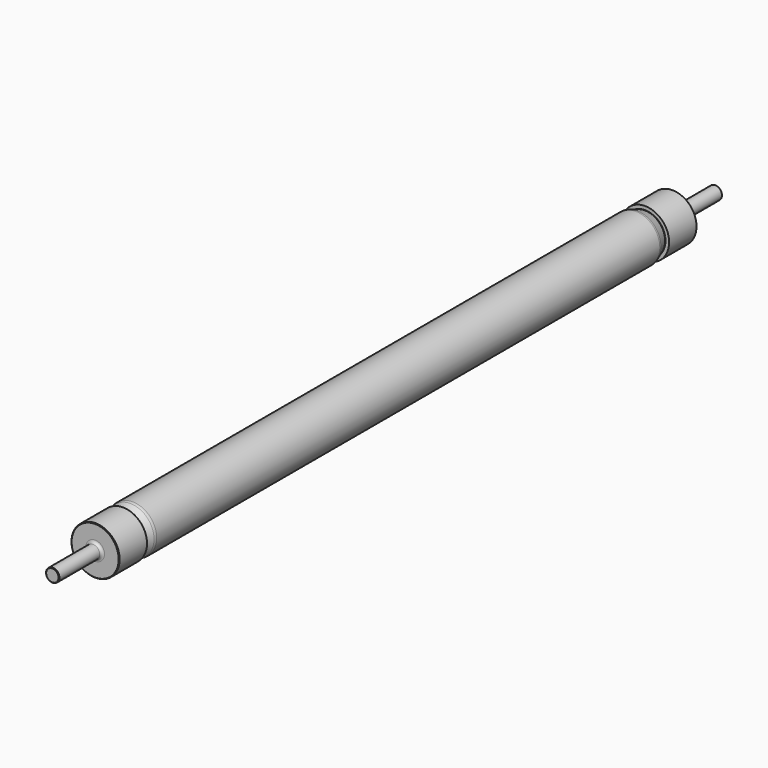
from build123d import *

# Parameters (mm, degrees)
F2_R    = 5
F3_SIZE = 1


with BuildPart() as f1:
    # F0 (on Right) → F1 (revolve)
    with BuildSketch(Plane.YZ):
        with BuildLine():
            Line((0, 12.5), (0, 0))
            Line((0, 0), (185, 0))
            Line((185, 0), (185, 39))
            Line((185, 39), (1365, 39))
            Line((1365, 39), (1365, 0))
            Line((1365, 0), (1550, 0))
            Line((1550, 0), (1550, 12.5))
            Line((1550, 12.5), (1450, 12.5))
            Line((1450, 12.5), (1450, 45))
            Line((1450, 45), (1385, 45))
            Line((1385, 45), (1385, 38.434669))
            ThreePointArc((1385, 38.434669), (1384.786788, 38.025093), (1384.32899, 37.964823))
            Line((1384.32899, 37.964823), (1366.656932, 44.396926))
            ThreePointArc((1366.656932, 44.396926), (1364.973212, 44.848078), (1363.23673, 45))
            Line((1363.23673, 45), (187.644905, 45))
            ThreePointArc((187.644905, 45), (185.040182, 44.772116), (182.514603, 44.095389))
            Line((182.514603, 44.095389), (165.67101, 37.964823))
            ThreePointArc((165.67101, 37.964823), (165.213212, 38.025093), (165, 38.434669))
            Line((165, 38.434669), (165, 45))
            Line((165, 45), (100, 45))
            Line((100, 45), (100, 12.5))
            Line((100, 12.5), (0, 12.5))
        make_face()
    revolve(axis=Axis((0, 1457.5, 0), (0, -1, 0)))

    # F2
    f2_edges = [f1.edges().sort_by_distance(p)[0] for p in [
        (0, 1450, -12.5),
        (0, 100, -12.5),
    ]]
    fillet(f2_edges, radius=F2_R)

    # F3
    f3_edges = [f1.edges().sort_by_distance(p)[0] for p in [
        (0, 1450, -45),
        (0, 1550, -12.5),
        (0, 0, -12.5),
        (0, 100, -45),
    ]]
    chamfer(f3_edges, length=F3_SIZE)


solid = f1.part
